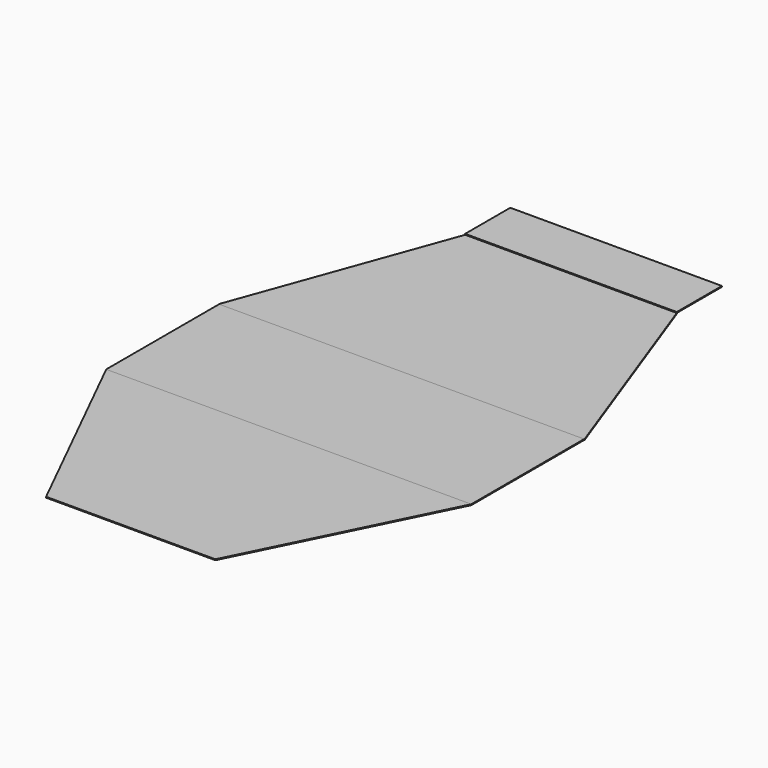
from build123d import *

# Parameters (mm, degrees)
F0_W     = 762
F0_H     = 203.2
F1_DEPTH = 3.175
F3_DEPTH = 3.175
F5_DEPTH = 3.175
F7_DEPTH = 3.175


with BuildPart() as f1:
    # F0 (on Top) → F1 (new body)
    with BuildSketch(Plane.XY):
        Rectangle(F0_W, F0_H)
    extrude(amount=F1_DEPTH)

    # F2 (on Top) → F3 (join)
    with BuildSketch(Plane.XY):
        Polygon((658.345319, -863.6), (381, -101.6), (0, -101.6), (0, -863.6), align=None)
        Polygon((0, -863.6), (0, -101.6), (-381, -101.6), (-658.345319, -863.6), align=None)
    extrude(amount=-F3_DEPTH)


with BuildPart() as f5:
    # F4 (on Top) → F5 (new body)
    with BuildSketch(Plane.XY):
        Polygon((0, -863.6), (-657.225, -863.6), (-657.225, -1371.6), (657.225, -1371.6), (657.225, -863.6), align=None)
    extrude(amount=-F5_DEPTH)


with BuildPart() as f7:
    # F6 (on Top) → F7 (new body)
    with BuildSketch(Plane.XY):
        Polygon((0, -1371.6), (-657.225, -1371.6), (-304.8, -2082.8), (0, -2082.8), align=None)
        Polygon((657.225, -1371.6), (0, -1371.6), (0, -2082.8), (304.8, -2082.8), align=None)
    extrude(amount=-F7_DEPTH)


solid = Compound([f1.part, f5.part, f7.part])
